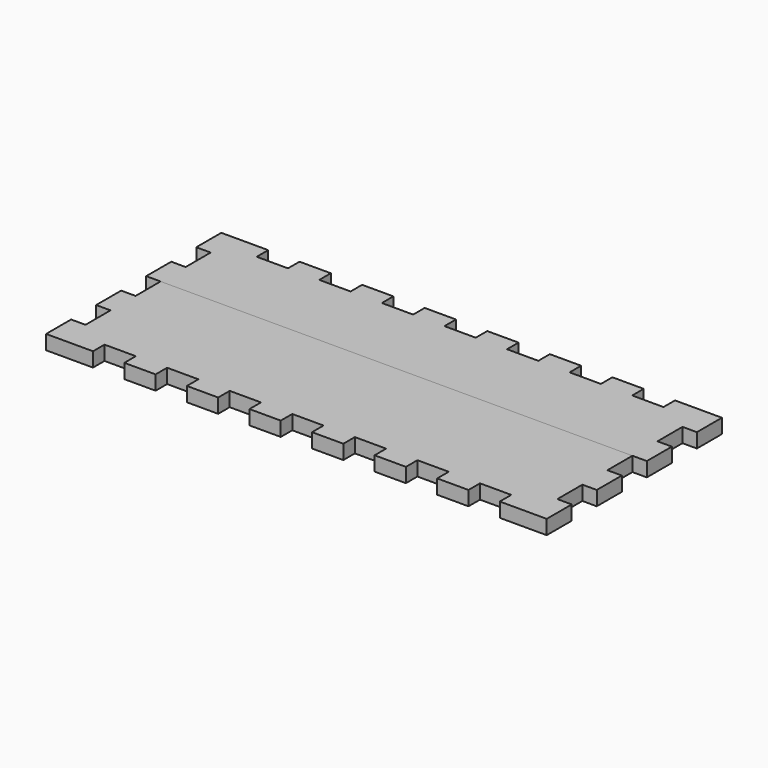
from build123d import *

# Parameters (mm, degrees)
F1_DEPTH = 5.842
F2_DEPTH = 5.842


with BuildPart() as f1:
    # F0 (on Top) → F1 (new body)
    with BuildSketch(Plane.XY):
        Polygon((19.05, 0), (0, 0), (0, -12.7), (5.842, -12.7), (5.842, -25.4), (0, -25.4), (0, -38.1), (5.842, -38.1), (197.358, -38.1), (203.2, -38.1), (203.2, -25.4), (197.358, -25.4), (197.358, -12.7), (203.2, -12.7), (203.2, 0), (184.15, 0), (184.15, -5.842), (171.45, -5.842), (171.45, 0), (158.75, 0), (158.75, -5.842), (146.05, -5.842), (146.05, 0), (133.35, 0), (133.35, -5.842), (120.65, -5.842), (120.65, 0), (107.95, 0), (107.95, -5.842), (95.25, -5.842), (95.25, 0), (82.55, 0), (82.55, -5.842), (69.85, -5.842), (69.85, 0), (57.15, 0), (57.15, -5.842), (44.45, -5.842), (44.45, 0), (31.75, 0), (31.75, -5.842), (19.05, -5.842), align=None)
    extrude(amount=F1_DEPTH)


with BuildPart() as f2:
    # F0 (on Top) → F2 (new body)
    with BuildSketch(Plane.XY):
        Polygon((197.358, -38.1), (5.842, -38.1), (5.842, -50.8), (0, -50.8), (0, -63.5), (5.842, -63.5), (5.842, -76.2), (0, -76.2), (0, -88.9), (19.05, -88.9), (19.05, -83.058), (31.75, -83.058), (31.75, -88.9), (44.45, -88.9), (44.45, -83.058), (57.15, -83.058), (57.15, -88.9), (69.85, -88.9), (69.85, -83.058), (82.55, -83.058), (82.55, -88.9), (95.25, -88.9), (95.25, -83.058), (107.95, -83.058), (107.95, -88.9), (120.65, -88.9), (120.65, -83.058), (133.35, -83.058), (133.35, -88.9), (146.05, -88.9), (146.05, -83.058), (158.75, -83.058), (158.75, -88.9), (171.45, -88.9), (171.45, -83.058), (184.15, -83.058), (184.15, -88.9), (203.2, -88.9), (203.2, -76.2), (197.358, -76.2), (197.358, -63.5), (203.2, -63.5), (203.2, -50.8), (197.358, -50.8), align=None)
    extrude(amount=F2_DEPTH)


solid = Compound([f1.part, f2.part])
